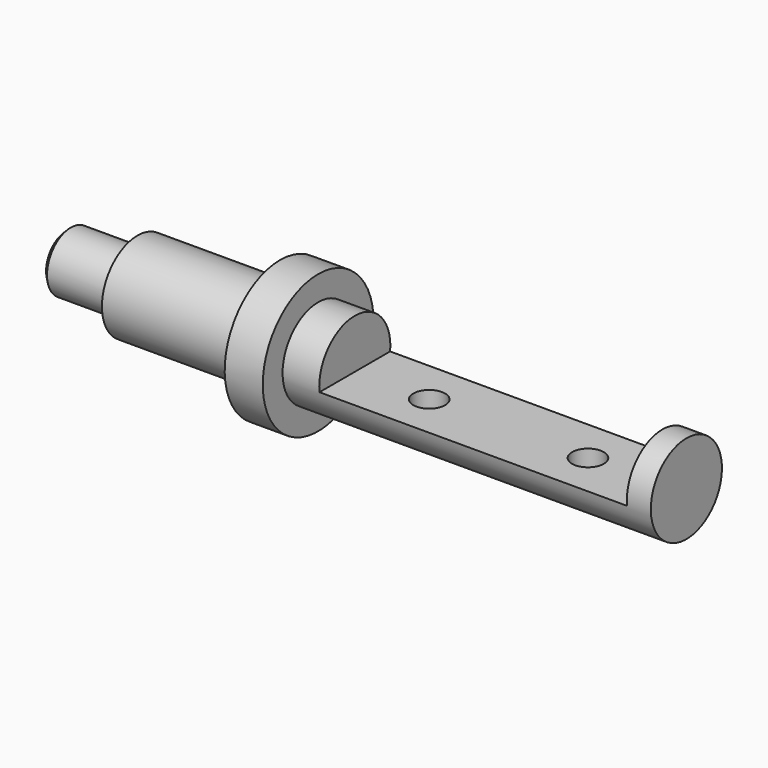
from build123d import *

# Parameters (mm, degrees)
F2_W          = 193.8
F2_H          = 44.1753827035
F3_DEPTH      = 43.601
F3_DEPTH_BACK = 43.601
F5_D          = 20
F6_SIZE       = 3


with BuildPart() as f1:
    # F0 (on Front) → F1 (revolve)
    with BuildSketch(Plane.XZ):
        Polygon((-158.8, 18.75), (-158.8, 0), (232, 0), (232, 28), (0, 28), (0, 43.6), (-24, 43.6), (-24, 28), (-113.8, 28), (-113.8, 18.75), align=None)
    revolve(axis=Axis((36.6, 0, 0), (-1, 0, 0)))

    # F2 (on Front) → F3 (cut, two sides)
    with BuildSketch(Plane.XZ) as f3_sk:
        with Locations((120, 18.9876913518)):
            Rectangle(F2_W, F2_H)
    extrude(amount=-F3_DEPTH, mode=Mode.SUBTRACT)
    extrude(f3_sk.sketch, amount=F3_DEPTH_BACK, mode=Mode.SUBTRACT)

    # F5 (through all)
    with Locations(Plane.XY.offset(-3.1)):
        with Locations((70, 0), (170, 0)):
            Hole(F5_D / 2)

    # F6
    f6_edges = [f1.edges().sort_by_distance(p)[0] for p in [
        (-158.8, 0, -18.75),
    ]]
    chamfer(f6_edges, length=F6_SIZE)


solid = f1.part
